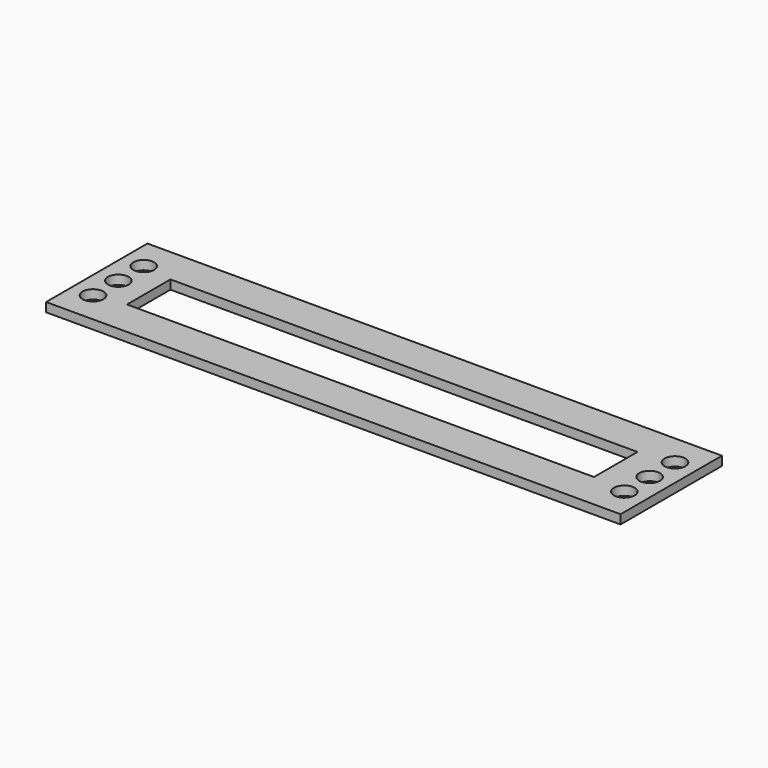
from build123d import *

# Parameters (mm, degrees)
F0_R     = 2.921
F0_W     = 131.063283
F0_H     = 15.24
F1_DEPTH = 1.27


with BuildPart() as f1:
    # F0 (on Top) → F1 (new body, symmetric)
    with BuildSketch(Plane.XY):
        Polygon((80.6069, -17.78), (80.6069, 17.78), (68.4911, 17.78), (-68.4911, 17.78), (-80.6069, 17.78), (-80.6069, -17.78), (-68.4911, -17.78), (68.4911, -17.78), align=None)
        with Locations((-74.549, -8.89)):
            Circle(F0_R, mode=Mode.SUBTRACT)
        with Locations((-74.549, 0)):
            Circle(F0_R, mode=Mode.SUBTRACT)
        with Locations((-0.498816, 0)):
            Rectangle(F0_W, F0_H, mode=Mode.SUBTRACT)
        with Locations((74.549, -8.89)):
            Circle(F0_R, mode=Mode.SUBTRACT)
        with Locations((74.549, 0)):
            Circle(F0_R, mode=Mode.SUBTRACT)
        with Locations((-74.549, 8.89)):
            Circle(F0_R, mode=Mode.SUBTRACT)
        with Locations((74.549, 8.89)):
            Circle(F0_R, mode=Mode.SUBTRACT)
    extrude(amount=F1_DEPTH, both=True)


solid = f1.part
